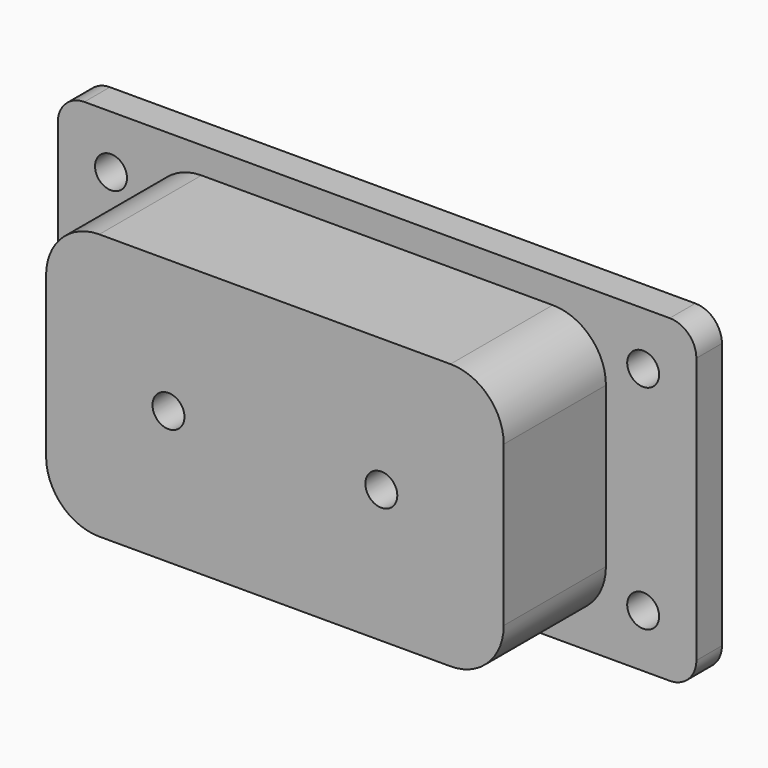
from build123d import *

# Parameters (mm, degrees)
F0_R     = 1.5
F1_DEPTH = 15
F2_DEPTH = 12
F3_R     = 1.5
F4_DEPTH = 12


with BuildPart() as f1:
    # F0 (on Front) → F1 (new body)
    with BuildSketch(Plane.XZ):
        with BuildLine():
            Line((0, 11), (0, 15))
            Line((0, 15), (-27.5, 15))
            ThreePointArc((-27.5, 15), (-29.267767, 14.267767), (-30, 12.5))
            Line((-30, 12.5), (-30, -12.5))
            ThreePointArc((-30, -12.5), (-29.267767, -14.267767), (-27.5, -15))
            Line((-27.5, -15), (0, -15))
            Line((0, -15), (0, -11))
            Line((0, -11), (-14, -11))
            ThreePointArc((-14, -11), (-18.242641, -9.242641), (-20, -5))
            Line((-20, -5), (-20, 5))
            ThreePointArc((-20, 5), (-18.242641, 9.242641), (-14, 11))
            Line((-14, 11), (0, 11))
        make_face()
        with Locations((-25, -10)):
            Circle(F0_R, mode=Mode.SUBTRACT)
        with Locations((-25, 10)):
            Circle(F0_R, mode=Mode.SUBTRACT)
        with BuildLine():
            Line((0, -11), (0, 11))
            Line((0, 11), (-14, 11))
            ThreePointArc((-14, 11), (-18.242641, 9.242641), (-20, 5))
            Line((-20, 5), (-20, -5))
            ThreePointArc((-20, -5), (-18.242641, -9.242641), (-14, -11))
            Line((-14, -11), (0, -11))
        make_face()
        with Locations((-10, 0)):
            Circle(F0_R, mode=Mode.SUBTRACT)
        with BuildLine():
            Line((14, 11), (0, 11))
            Line((0, 11), (0, -11))
            Line((0, -11), (14, -11))
            ThreePointArc((14, -11), (18.242641, -9.242641), (20, -5))
            Line((20, -5), (20, 5))
            ThreePointArc((20, 5), (18.242641, 9.242641), (14, 11))
        make_face()
        with Locations((10, 0)):
            Circle(F0_R, mode=Mode.SUBTRACT)
        with BuildLine():
            Line((27.5, 15), (0, 15))
            Line((0, 15), (0, 11))
            Line((0, 11), (14, 11))
            ThreePointArc((14, 11), (18.242641, 9.242641), (20, 5))
            Line((20, 5), (20, -5))
            ThreePointArc((20, -5), (18.242641, -9.242641), (14, -11))
            Line((14, -11), (0, -11))
            Line((0, -11), (0, -15))
            Line((0, -15), (27.5, -15))
            ThreePointArc((27.5, -15), (29.267767, -14.267767), (30, -12.5))
            Line((30, -12.5), (30, 12.5))
            ThreePointArc((30, 12.5), (29.267767, 14.267767), (27.5, 15))
        make_face()
        with Locations((25, -10)):
            Circle(F0_R, mode=Mode.SUBTRACT)
        with Locations((25, 10)):
            Circle(F0_R, mode=Mode.SUBTRACT)
    extrude(amount=F1_DEPTH)

    # F0 (on Front) → F2 (cut)
    with BuildSketch(Plane.XZ):
        with BuildLine():
            Line((0, -11), (0, 11))
            Line((0, 11), (-14, 11))
            ThreePointArc((-14, 11), (-18.242641, 9.242641), (-20, 5))
            Line((-20, 5), (-20, -5))
            ThreePointArc((-20, -5), (-18.242641, -9.242641), (-14, -11))
            Line((-14, -11), (0, -11))
        make_face()
        with Locations((-10, 0)):
            Circle(F0_R, mode=Mode.SUBTRACT)
        with BuildLine():
            Line((14, 11), (0, 11))
            Line((0, 11), (0, -11))
            Line((0, -11), (14, -11))
            ThreePointArc((14, -11), (18.242641, -9.242641), (20, -5))
            Line((20, -5), (20, 5))
            ThreePointArc((20, 5), (18.242641, 9.242641), (14, 11))
        make_face()
        with Locations((10, 0)):
            Circle(F0_R, mode=Mode.SUBTRACT)
    extrude(amount=F2_DEPTH, mode=Mode.SUBTRACT)

    # F3 (on face) → F4 (cut)
    with BuildSketch(Plane.XZ.offset(15)):
        with BuildLine():
            ThreePointArc((30, 12.5), (29.267767, 14.267767), (27.5, 15))
            Line((27.5, 15), (-27.5, 15))
            ThreePointArc((-27.5, 15), (-29.267767, 14.267767), (-30, 12.5))
            Line((-30, 12.5), (-30, -12.5))
            ThreePointArc((-30, -12.5), (-29.267767, -14.267767), (-27.5, -15))
            Line((-27.5, -15), (27.5, -15))
            ThreePointArc((27.5, -15), (29.267767, -14.267767), (30, -12.5))
            Line((30, -12.5), (30, 12.5))
        make_face()
        with Locations((-25, -10)):
            Circle(F3_R, mode=Mode.SUBTRACT)
        with Locations((25, -10)):
            Circle(F3_R, mode=Mode.SUBTRACT)
        with BuildLine():
            ThreePointArc((-21.5, 7.5), (-20.035534, 11.035534), (-16.5, 12.5))
            Line((-16.5, 12.5), (16.5, 12.5))
            ThreePointArc((16.5, 12.5), (20.035534, 11.035534), (21.5, 7.5))
            Line((21.5, 7.5), (21.5, -7.5))
            ThreePointArc((21.5, -7.5), (20.035534, -11.035534), (16.5, -12.5))
            Line((16.5, -12.5), (-16.5, -12.5))
            ThreePointArc((-16.5, -12.5), (-20.035534, -11.035534), (-21.5, -7.5))
            Line((-21.5, -7.5), (-21.5, 7.5))
        make_face(mode=Mode.SUBTRACT)
        with Locations((-25, 10)):
            Circle(F3_R, mode=Mode.SUBTRACT)
        with Locations((25, 10)):
            Circle(F3_R, mode=Mode.SUBTRACT)
    extrude(amount=-F4_DEPTH, mode=Mode.SUBTRACT)


solid = f1.part
